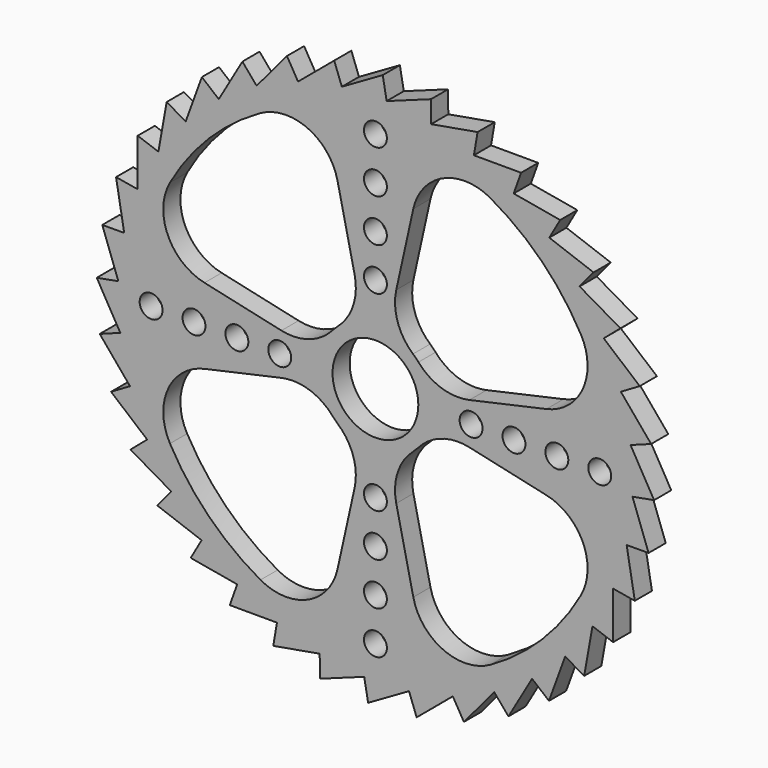
from build123d import *

# Parameters (mm, degrees)
F0_R     = 3.390494
F0_R_2   = 12.7
F1_DEPTH = 6.35


with BuildPart() as f1:
    # F0 (on Front) → F1 (new body)
    with BuildSketch(Plane.XZ):
        Polygon((-80.893202, 16.455771), (-76.127474, 3.323797), (-82.521767, 2.158814), (-75.548098, -9.946096), (-81.64295, -12.203737), (-72.673232, -22.913782), (-78.283453, -26.195485), (-67.590225, -35.185244), (-72.545354, -39.391296), (-60.453525, -46.387621), (-64.603, -51.390222), (-51.479974, -56.180533), (-54.697717, -61.827682), (-40.94223, -64.266428), (-43.130471, -70.386539), (-29.160478, -70.39962), (-30.252728, -76.806738), (-16.492699, -74.393756), (-16.455771, -80.893202), (-3.323797, -76.127474), (-2.158814, -82.521767), (9.946096, -75.548098), (12.203737, -81.64295), (22.913782, -72.673232), (26.195485, -78.283453), (35.185244, -67.590225), (39.391296, -72.545354), (46.387621, -60.453525), (51.390222, -64.603), (56.180533, -51.479974), (61.827682, -54.697717), (64.266428, -40.94223), (70.386539, -43.130471), (70.39962, -29.160478), (76.806738, -30.252728), (74.393756, -16.492699), (80.893202, -16.455771), (76.127474, -3.323797), (82.521767, -2.158814), (75.548098, 9.946096), (81.64295, 12.203737), (72.673232, 22.913782), (78.283453, 26.195485), (67.590225, 35.185244), (72.545354, 39.391296), (60.453525, 46.387621), (64.603, 51.390222), (51.479974, 56.180533), (54.697717, 61.827682), (40.94223, 64.266428), (43.130471, 70.386539), (29.160478, 70.39962), (30.252728, 76.806738), (16.492699, 74.393756), (16.455771, 80.893202), (3.323797, 76.127474), (2.158814, 82.521767), (-9.946096, 75.548098), (-12.203737, 81.64295), (-22.913782, 72.673232), (-26.195485, 78.283453), (-35.185244, 67.590225), (-39.391296, 72.545354), (-46.387621, 60.453525), (-51.390222, 64.603), (-56.180533, 51.479974), (-61.827682, 54.697717), (-64.266428, 40.94223), (-70.386539, 43.130471), (-70.39962, 29.160478), (-76.806738, 30.252728), (-74.393756, 16.492699), align=None)
        with BuildLine():
            ThreePointArc((-11.128394, -12.738895), (-6.579044, -19.606941), (-6.170858, -27.834944))
            Line((-6.170858, -27.834944), (-11.222449, -50.621197))
            ThreePointArc((-11.222449, -50.621197), (-20.055193, -61.459456), (-34.023103, -60.840828))
            ThreePointArc((-34.023103, -60.840828), (-49.290236, -49.291485), (-60.839966, -34.024645))
            ThreePointArc((-60.839966, -34.024645), (-61.458908, -20.055655), (-50.619858, -11.222152))
            Line((-50.619858, -11.222152), (-27.834944, -6.170858))
            ThreePointArc((-27.834944, -6.170858), (-19.606941, -6.579044), (-12.738895, -11.128394))
            Line((-12.738895, -11.128394), (-11.128394, -12.738895))
        make_face(mode=Mode.SUBTRACT)
        with Locations((0, -66.426293)):
            Circle(F0_R, mode=Mode.SUBTRACT)
        with Locations((0, -53.726293)):
            Circle(F0_R, mode=Mode.SUBTRACT)
        with Locations((0, -41.026293)):
            Circle(F0_R, mode=Mode.SUBTRACT)
        with Locations((0, -28.326293)):
            Circle(F0_R, mode=Mode.SUBTRACT)
        with BuildLine():
            ThreePointArc((12.738895, -11.128394), (19.606941, -6.579044), (27.834944, -6.170858))
            Line((27.834944, -6.170858), (50.621197, -11.222449))
            ThreePointArc((50.621197, -11.222449), (61.459456, -20.055193), (60.840828, -34.023103))
            ThreePointArc((60.840828, -34.023103), (49.291485, -49.290236), (34.024645, -60.839966))
            ThreePointArc((34.024645, -60.839966), (20.055655, -61.458908), (11.222152, -50.619858))
            Line((11.222152, -50.619858), (6.170858, -27.834944))
            ThreePointArc((6.170858, -27.834944), (6.579044, -19.606941), (11.128394, -12.738895))
            Line((11.128394, -12.738895), (12.738895, -11.128394))
        make_face(mode=Mode.SUBTRACT)
        with Locations((-66.426293, 0)):
            Circle(F0_R, mode=Mode.SUBTRACT)
        with Locations((-53.726293, 0)):
            Circle(F0_R, mode=Mode.SUBTRACT)
        with Locations((-41.026293, 0)):
            Circle(F0_R, mode=Mode.SUBTRACT)
        with Locations((-28.326293, 0)):
            Circle(F0_R, mode=Mode.SUBTRACT)
        with BuildLine():
            ThreePointArc((-12.738895, 11.128394), (-19.606941, 6.579044), (-27.834944, 6.170858))
            Line((-27.834944, 6.170858), (-50.621197, 11.222449))
            ThreePointArc((-50.621197, 11.222449), (-61.459456, 20.055193), (-60.840828, 34.023103))
            ThreePointArc((-60.840828, 34.023103), (-49.291485, 49.290236), (-34.024645, 60.839966))
            ThreePointArc((-34.024645, 60.839966), (-20.055655, 61.458908), (-11.222152, 50.619858))
            Line((-11.222152, 50.619858), (-6.170858, 27.834944))
            ThreePointArc((-6.170858, 27.834944), (-6.579044, 19.606941), (-11.128394, 12.738895))
            Line((-11.128394, 12.738895), (-12.738895, 11.128394))
        make_face(mode=Mode.SUBTRACT)
        Circle(F0_R_2, mode=Mode.SUBTRACT)
        with Locations((28.326293, 0)):
            Circle(F0_R, mode=Mode.SUBTRACT)
        with Locations((41.026293, 0)):
            Circle(F0_R, mode=Mode.SUBTRACT)
        with Locations((0, 28.326293)):
            Circle(F0_R, mode=Mode.SUBTRACT)
        with Locations((0, 41.026293)):
            Circle(F0_R, mode=Mode.SUBTRACT)
        with BuildLine():
            Line((50.619858, 11.222152), (27.834944, 6.170858))
            ThreePointArc((27.834944, 6.170858), (19.606941, 6.579044), (12.738895, 11.128394))
            ThreePointArc((12.738895, 11.128394), (11.960782, 11.960782), (11.128394, 12.738895))
            ThreePointArc((11.128394, 12.738895), (6.579044, 19.606941), (6.170858, 27.834944))
            Line((6.170858, 27.834944), (11.222449, 50.621197))
            ThreePointArc((11.222449, 50.621197), (20.055193, 61.459456), (34.023103, 60.840828))
            ThreePointArc((34.023103, 60.840828), (49.290236, 49.291485), (60.839966, 34.024645))
            ThreePointArc((60.839966, 34.024645), (61.458908, 20.055655), (50.619858, 11.222152))
        make_face(mode=Mode.SUBTRACT)
        with Locations((53.726293, 0)):
            Circle(F0_R, mode=Mode.SUBTRACT)
        with Locations((66.426293, 0)):
            Circle(F0_R, mode=Mode.SUBTRACT)
        with Locations((0, 53.726293)):
            Circle(F0_R, mode=Mode.SUBTRACT)
        with Locations((0, 66.426293)):
            Circle(F0_R, mode=Mode.SUBTRACT)
    extrude(amount=F1_DEPTH)


solid = f1.part
